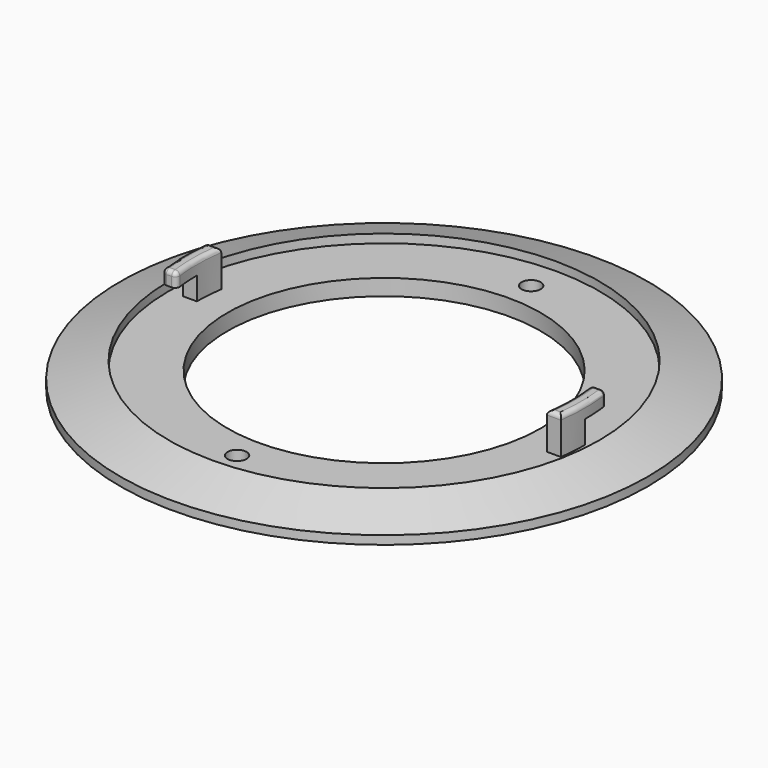
from build123d import *

# Parameters (mm, degrees)
F0_R      = 61.5
F1_DEPTH  = 2
F3_R      = 50.15
F4_R      = 61.5
F6_R      = 36.5
F7_DEPTH  = 5.751
F8_R      = 50.15
F8_R_2    = 36.5
F9_DEPTH  = 2
F10_R     = 2.225
F11_DEPTH = 5.751
F13_DEPTH = 2
F15_DEPTH = 6.55
F17_W     = 6.5
F17_H     = 5.3
F18_DEPTH = 5
F20_W     = 6.5
F20_H     = 5.3
F21_DEPTH = 4
F22_R     = 1


with BuildPart() as f1:
    # F0 (on Top) → F1 (new body)
    with BuildSketch(Plane.XY):
        Circle(F0_R)
    extrude(amount=F1_DEPTH)

    # F3 (on offset) → F5 section 0
    with BuildSketch(Plane.XY.offset(5.75)):
        Circle(F3_R)
    # F4 (on face) → F5 section 1
    with BuildSketch(Plane.XY.offset(2)):
        Circle(F4_R)
    loft()

    # F6 (on face) → F7 (cut, through all)
    with BuildSketch(Plane.XY.offset(5.75)):
        Circle(F6_R)
    extrude(amount=-F7_DEPTH, mode=Mode.SUBTRACT)

    # F8 (on face) → F9 (cut)
    with BuildSketch(Plane.XY.offset(5.75)):
        Circle(F8_R)
        Circle(F8_R_2, mode=Mode.SUBTRACT)
    extrude(amount=-F9_DEPTH, mode=Mode.SUBTRACT)

    # F10 (on face) → F11 (cut, through all)
    with BuildSketch(Plane.XY.offset(5.75)):
        with Locations((0, 42.825)):
            Circle(F10_R)
        with Locations((0, -42.825)):
            Circle(F10_R)
    extrude(amount=-F11_DEPTH, mode=Mode.SUBTRACT)

    # F12 (on face) → F13 (join, through all)
    with BuildSketch(Plane.XY.offset(5.75)):
        with BuildLine():
            Line((-43.1380415063, 6.5), (-46.3969018362, 6.5))
            ThreePointArc((-46.3969018362, 6.5), (-46.85, 0), (-46.3969018362, -6.5))
            Line((-46.3969018362, -6.5), (-43.1380415063, -6.5))
            ThreePointArc((-43.1380415063, -6.5), (-43.625, 0), (-43.1380415063, 6.5))
        make_face()
        with BuildLine():
            Line((43.1380415063, -6.5), (46.3969018362, -6.5))
            ThreePointArc((46.3969018362, -6.5), (46.85, 0), (46.3969018362, 6.5))
            Line((46.3969018362, 6.5), (43.1380415063, 6.5))
            ThreePointArc((43.1380415063, 6.5), (43.625, 0), (43.1380415063, -6.5))
        make_face()
    extrude(amount=-F13_DEPTH)

    # F14 (on face) → F15 (join)
    with BuildSketch(Plane.XY.offset(5.75)):
        with BuildLine():
            Line((-43.1380415063, 6.5), (-46.3969018362, 6.5))
            ThreePointArc((-46.3969018362, 6.5), (-46.85, 0), (-46.3969018362, -6.5))
            Line((-46.3969018362, -6.5), (-43.1380415063, -6.5))
            ThreePointArc((-43.1380415063, -6.5), (-43.625, 0), (-43.1380415063, 6.5))
        make_face()
        with BuildLine():
            Line((43.1380415063, -6.5), (46.3969018362, -6.5))
            ThreePointArc((46.3969018362, -6.5), (46.85, 0), (46.3969018362, 6.5))
            Line((46.3969018362, 6.5), (43.1380415063, 6.5))
            ThreePointArc((43.1380415063, 6.5), (43.625, 0), (43.1380415063, -6.5))
        make_face()
    extrude(amount=F15_DEPTH)

    # F17 (on 3pt) → F18 (cut)
    with BuildSketch(Plane.YZ.offset(-43.1380415063)):
        with Locations((-3.25, 6.4)):
            Rectangle(F17_W, F17_H)
    extrude(amount=-F18_DEPTH, mode=Mode.SUBTRACT)

    # F20 (on 3pt) → F21 (cut)
    with BuildSketch(Plane.YZ.offset(43.1380415063)):
        with Locations((3.25, 6.4)):
            Rectangle(F20_W, F20_H)
    extrude(amount=F21_DEPTH, mode=Mode.SUBTRACT)

    # F22
    f22_edges = [f1.edges().sort_by_distance(p)[0] for p in [
        (44.767472, 6.5, 12.3),
        (-44.767472, -6.5, 12.3),
        (-46.85, 0, 12.3),
        (-43.625, 0, 12.3),
        (43.625, 0, 12.3),
        (46.85, 0, 12.3),
        (43.138042, 6.5, 10.675),
        (-46.396902, -6.5, 10.675),
        (-43.138042, -6.5, 10.675),
        (46.396902, 6.5, 10.675),
        (-44.767472, 6.5, 12.3),
        (44.767472, -6.5, 12.3),
    ]]
    fillet(f22_edges, radius=F22_R)


solid = f1.part
